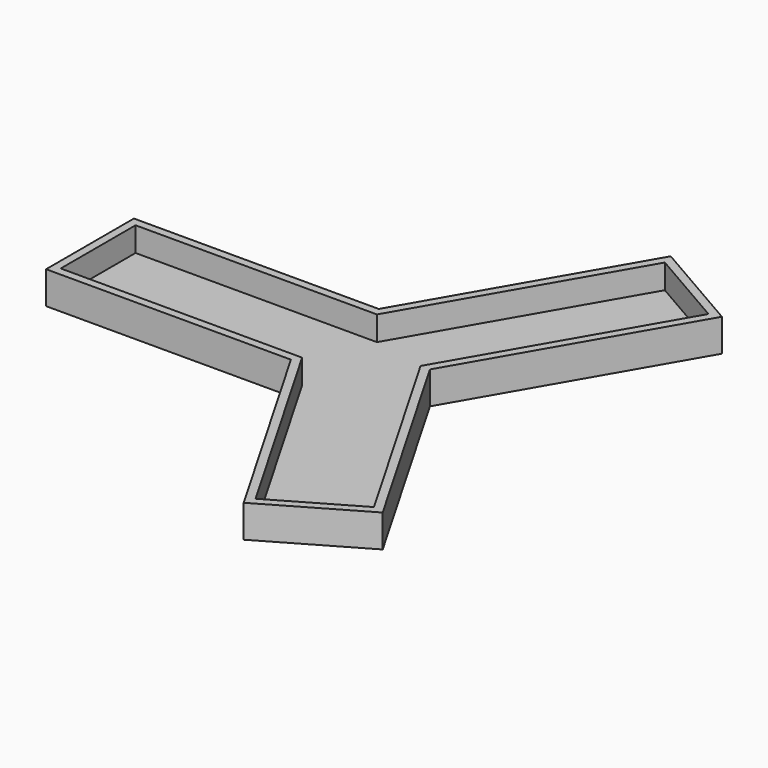
from build123d import *

# Parameters (mm, degrees)
PAD002_DEPTH = 8
PAD_DEPTH    = 2
ARRAY_COUNT  = 3


with BuildPart() as pad002:
    # Sketch002 → Pad002 (new body)
    with BuildSketch(Plane.XY):
        Polygon((-6.6395280957, 11.5), (-7.7942286341, 13.5), (-68, 13.5), (-68, -13.5), (-7.7942286341, -13.5), (-6.6395280957, -11.5), (-66, -11.5), (-66, 11.5), align=None)
    extrude(amount=PAD002_DEPTH)


with BuildPart() as array:
    # Sketch → Pad (new body)
    with BuildSketch(Plane.XY):
        Polygon((0, 0), (-7.7942286341, 13.5), (-68, 13.5), (-68, -13.5), (-7.7942286341, -13.5), align=None)
    extrude(amount=PAD_DEPTH)

    # Fusion: union Pad002
    add(pad002.part)

    # Array: Array ×3 about axis
    array_axis = Axis((0, 0, 0), (0, 0, 1))


with BuildPart() as array_1:
    add(array.part)
    for i in range(1, ARRAY_COUNT):
        add(array.part.rotate(array_axis, i * 360 / ARRAY_COUNT))


solid = array_1.part
